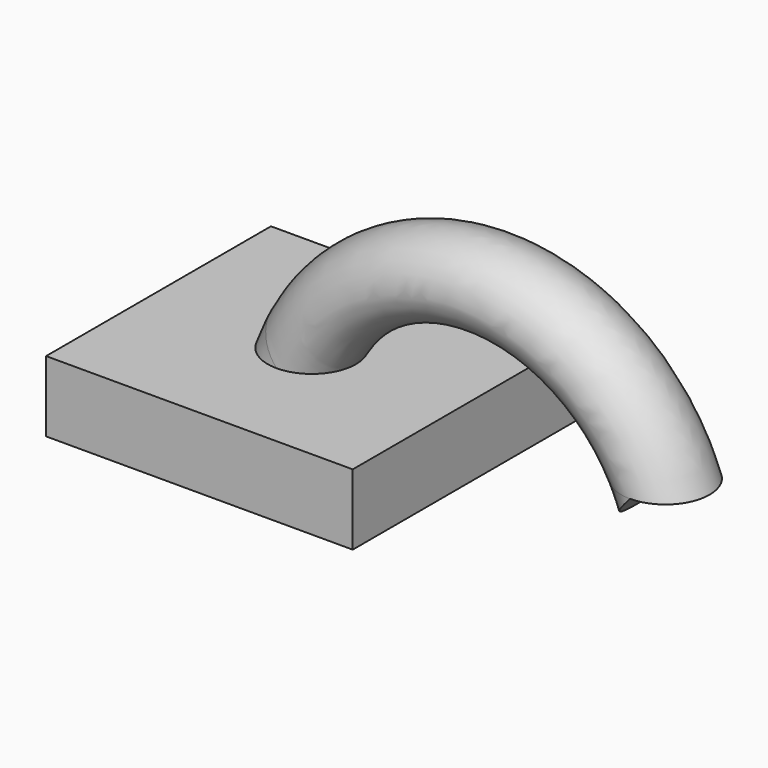
from build123d import *

# Parameters (mm, degrees)
F0_R     = 3.175
F3_W     = 22.029522
F3_H     = 20.19373
F4_DEPTH = 5.08


with BuildPart() as f2:
    # F2: sweep along a path in F1
    with BuildLine(Plane.XZ) as f2_path:
        ThreePointArc((25.4, 0), (12.7, 8.259906), (0, 0))
    # F0 (on Top) → F2 (sweep)
    with BuildSketch(Plane.XY):
        Circle(F0_R)
        with Locations((25.4, 0)):
            Circle(F0_R)
    sweep(path=f2_path.line)

    # F3 (on Top) → F4 (join)
    with BuildSketch(Plane.XY):
        Rectangle(F3_W, F3_H)
    extrude(amount=-F4_DEPTH)


solid = f2.part
